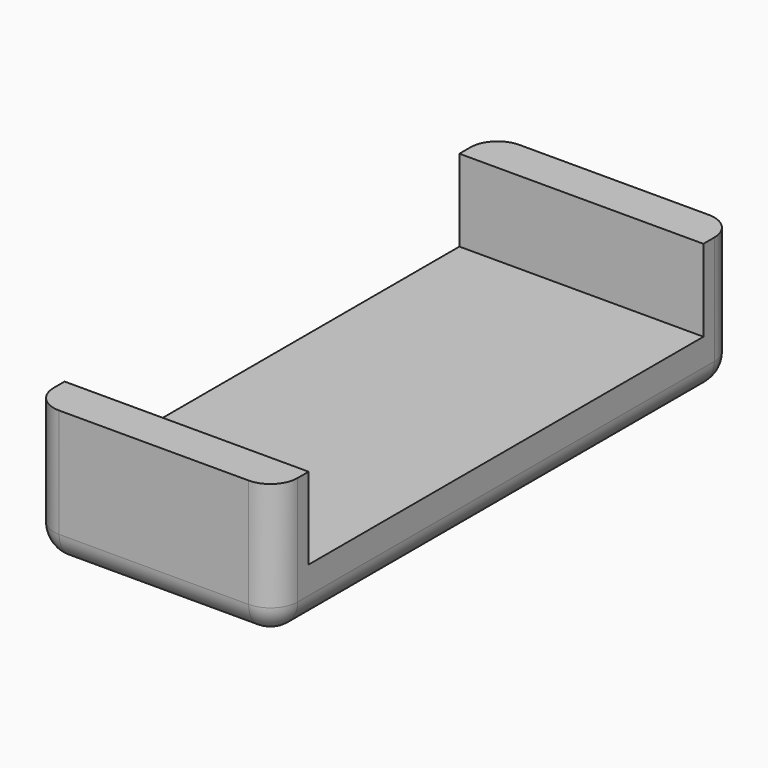
from build123d import *

# Parameters (mm, degrees)
F0_W     = 17.9
F0_H     = 42.2
F1_DEPTH = 4
F2_W     = 17.9
F2_H     = 3
F3_DEPTH = 6
F4_W     = 17.9
F4_H     = 3
F5_DEPTH = 6
F6_R     = 2


with BuildPart() as f1:
    # F0 (on Top) → F1 (new body)
    with BuildSketch(Plane.XY):
        with Locations((-14.323435, -9.50025)):
            Rectangle(F0_W, F0_H)
    extrude(amount=F1_DEPTH)

    # F2 (on face) → F3 (join)
    with BuildSketch(Plane.XY.offset(4)):
        with Locations((-14.323435, 10.09975)):
            Rectangle(F2_W, F2_H)
    extrude(amount=F3_DEPTH)

    # F4 (on face) → F5 (join)
    with BuildSketch(Plane.XY.offset(4)):
        with Locations((-14.323435, -29.10025)):
            Rectangle(F4_W, F4_H)
    extrude(amount=F5_DEPTH)

    # F6
    f6_edges = [f1.edges().sort_by_distance(p)[0] for p in [
        (-23.273435, -9.50025, 0),
        (-5.373435, -9.50025, 0),
        (-14.323435, 11.59975, 0),
        (-14.323435, -30.60025, 0),
        (-5.373435, 11.59975, 5),
        (-23.273435, 11.59975, 5),
        (-5.373435, -30.60025, 5),
        (-23.273435, -30.60025, 5),
    ]]
    fillet(f6_edges, radius=F6_R)


solid = f1.part
